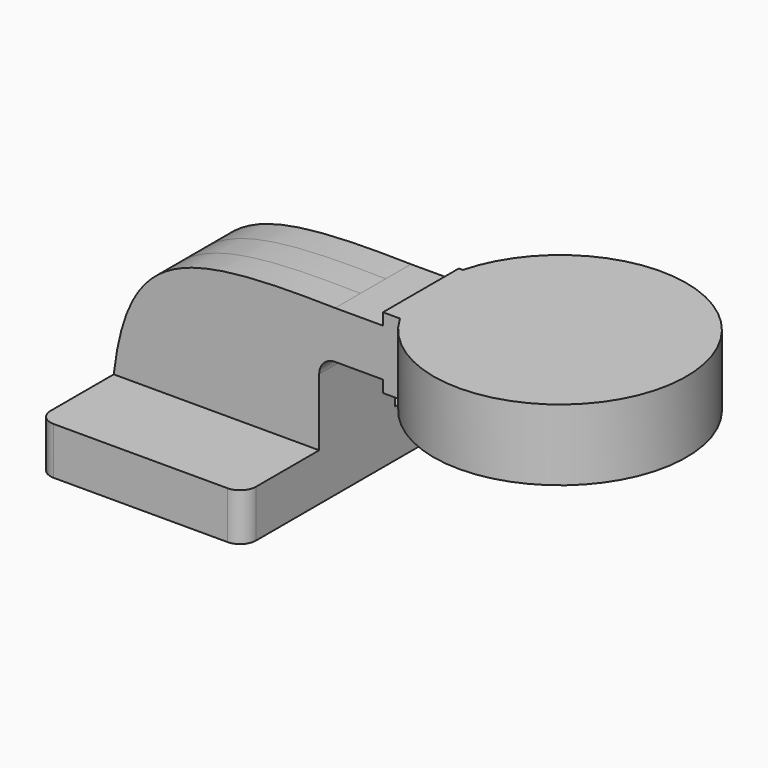
from build123d import *

# Parameters (mm, degrees)
F1_DEPTH = 12.7
F2_DEPTH = 63.5
F3_DEPTH = 25.4
F5_R     = 6.35


with BuildPart() as f1:
    # F0 (on Front) → F1 (new body, symmetric)
    with BuildSketch(Plane.XZ):
        with BuildLine():
            add(Edge.make_bspline(
                [(-41.275, 9.525), (-35.564307, 57.795133), (-13.679589, 63.100524), (47.681865, 61.9252)],
                knots=[0, 0, 0, 0, 103.242941, 103.242941, 103.242941, 103.242941], degree=3))
            Line((-41.275, 9.525), (22.225, 9.525))
            Line((22.225, 9.525), (22.225, 36.468335))
            ThreePointArc((22.225, 36.468335), (29.681143, 54.469057), (47.681865, 61.9252))
        make_face()
        Polygon((22.225, 9.525), (-41.275, 9.525), (-41.275, -9.525), (41.275, -9.525), (41.275, 9.525), align=None)
        with BuildLine():
            Line((22.225, 36.468335), (22.225, 9.525))
            Line((22.225, 9.525), (41.275, 9.525))
            Line((41.275, 9.525), (41.275, 36.468335))
            ThreePointArc((41.275, 36.468335), (43.151527, 40.998673), (47.681865, 42.8752))
            Line((47.681865, 42.8752), (66.902457, 42.8752))
            Line((66.902457, 42.8752), (66.902457, 61.9252))
            Line((66.902457, 61.9252), (47.681865, 61.9252))
            ThreePointArc((47.681865, 61.9252), (29.681143, 54.469057), (22.225, 36.468335))
        make_face()
        Polygon((66.902457, 66.675), (66.902457, 61.9252), (66.902457, 42.8752), (66.902457, 38.090521), (117.702457, 38.090521), (117.702457, 66.675), align=None)
    extrude(amount=F1_DEPTH, both=True)

    # F0 (on Front) → F2 (join, symmetric)
    with BuildSketch(Plane.XZ):
        Polygon((22.225, 9.525), (-41.275, 9.525), (-41.275, -9.525), (41.275, -9.525), (41.275, 9.525), align=None)
    extrude(amount=F2_DEPTH, both=True)

    # F0 (on Front) → F3 (join)
    with BuildSketch(Plane.XZ):
        with BuildLine():
            add(Edge.make_bspline(
                [(-41.275, 9.525), (-35.564307, 57.795133), (-13.679589, 63.100524), (47.681865, 61.9252)],
                knots=[0, 0, 0, 0, 103.242941, 103.242941, 103.242941, 103.242941], degree=3))
            Line((-41.275, 9.525), (22.225, 9.525))
            Line((22.225, 9.525), (22.225, 36.468335))
            ThreePointArc((22.225, 36.468335), (29.681143, 54.469057), (47.681865, 61.9252))
        make_face()
        Polygon((22.225, 9.525), (-41.275, 9.525), (-41.275, -9.525), (41.275, -9.525), (41.275, 9.525), align=None)
        with BuildLine():
            Line((22.225, 36.468335), (22.225, 9.525))
            Line((22.225, 9.525), (41.275, 9.525))
            Line((41.275, 9.525), (41.275, 36.468335))
            ThreePointArc((41.275, 36.468335), (43.151527, 40.998673), (47.681865, 42.8752))
            Line((47.681865, 42.8752), (66.902457, 42.8752))
            Line((66.902457, 42.8752), (66.902457, 61.9252))
            Line((66.902457, 61.9252), (47.681865, 61.9252))
            ThreePointArc((47.681865, 61.9252), (29.681143, 54.469057), (22.225, 36.468335))
        make_face()
        Polygon((66.902457, 66.675), (66.902457, 61.9252), (66.902457, 42.8752), (66.902457, 38.090521), (117.702457, 38.090521), (117.702457, 66.675), align=None)
    extrude(amount=F3_DEPTH)

    # F0 (on Front) → F4 (revolve)
    with BuildSketch(Plane.XZ):
        Polygon((66.902457, 66.675), (66.902457, 61.9252), (66.902457, 42.8752), (66.902457, 38.090521), (117.702457, 38.090521), (117.702457, 66.675), align=None)
    revolve(axis=Axis((117.702457, 0, 52.382761), (0, 0, 1)))

    # F5
    f5_edges = [f1.edges().sort_by_distance(p)[0] for p in [
        (-41.275, -63.5, 0),
        (41.275, -63.5, 0),
        (-41.275, 63.5, 0),
        (41.275, 63.5, 0),
    ]]
    fillet(f5_edges, radius=F5_R)


solid = f1.part
